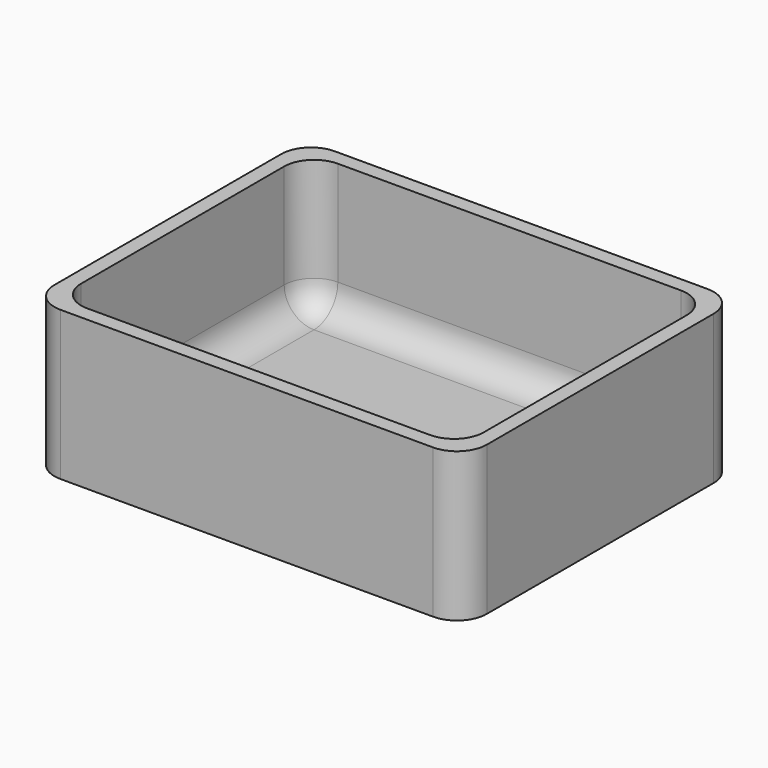
from build123d import *

# Parameters (mm, degrees)
F0_W     = 73.7051814795
F0_H     = 58.4876872599
F1_DEPTH = 25.4
F2_T     = -2.54
F3_R     = 5.08
F4_R     = 5.08


with BuildPart() as f1:
    # F0 (on Top) → F1 (new body)
    with BuildSketch(Plane.XY):
        with Locations((36.8525907397, -29.24384363)):
            Rectangle(F0_W, F0_H)
        with Locations((36.8525907397, -29.24384363)):
            Rectangle(F0_W, F0_H)
    extrude(amount=F1_DEPTH)

    # F2
    f2_openings = [f1.faces().sort_by_distance(p)[0] for p in [
        (36.852591, -29.243844, 25.4),
    ]]
    offset(amount=F2_T, openings=f2_openings)

    # F3
    f3_edges = [f1.edges().sort_by_distance(p)[0] for p in [
        (0, -58.487687, 12.7),
        (0, 0, 12.7),
        (2.54, -55.947687, 13.97),
        (2.54, -2.54, 13.97),
        (73.705181, 0, 12.7),
        (71.165181, -2.54, 13.97),
        (71.165181, -55.947687, 13.97),
        (73.705181, -58.487687, 12.7),
    ]]
    fillet(f3_edges, radius=F3_R)

    # F4
    f4_edges = [f1.edges().sort_by_distance(p)[0] for p in [
        (71.165181, -29.243844, 2.54),
    ]]
    fillet(f4_edges, radius=F4_R)


solid = f1.part
